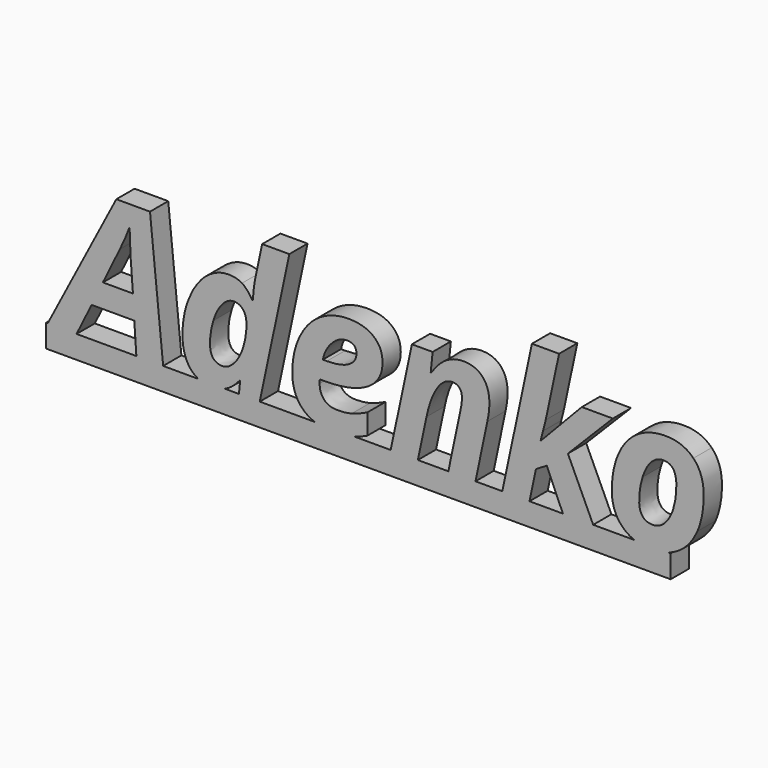
from build123d import *

# Parameters (mm, degrees)
F1_DEPTH = 3


with BuildPart() as f1:
    # F0 (on Front) → F1 (new body)
    with BuildSketch(Plane.XZ):
        with BuildLine():
            Line((-46.1463582666, 0), (-46.3611781597, 0))
            Line((-46.3611781597, 0), (-46.3611781597, -3))
            Line((-46.3611781597, -3), (35.8146238138, -3))
            Line((35.8146238138, -3), (35.8146238138, 0))
            Line((35.8146238138, 0), (35.4910435974, 0))
            add(Edge.make_bspline(
                [(35.4910435974, 0), (34.4249456023, -0.3626259014), (33.1561656303, -0.3626259014)],
                knots=[0.4161376054, 0.4161376054, 0.4161376054, 1, 1, 1], degree=2))
            add(Edge.make_bspline(
                [(33.1561656303, -0.3626259014), (31.9751096996, -0.3626259014), (31.0367911069, 0)],
                knots=[0, 0, 0, 0.5096368798, 0.5096368798, 0.5096368798], degree=2))
            Line((31.0367911069, 0), (25.6185773395, 0))
            Line((25.6185773395, 0), (25.6757539825, -0.1232831214))
            Line((25.6757539825, -0.1232831214), (21.6867076493, -0.1232831214))
            Line((21.6867076493, -0.1232831214), (21.6330940451, 0))
            Line((21.6330940451, 0), (17.2376658852, 0))
            Line((17.2376658852, 0), (17.2113775726, -0.1232831214))
            Line((17.2113775726, -0.1232831214), (13.6402313314, -0.1232831214))
            Line((13.6402313314, -0.1232831214), (13.6663684686, 0))
            Line((13.6663684686, 0), (10.1366339033, 0))
            Line((10.1366339033, 0), (10.1108750994, -0.1232831214))
            Line((10.1108750994, -0.1232831214), (6.5397288582, -0.1232831214))
            Line((6.5397288582, -0.1232831214), (6.5655814677, 0))
            Line((6.5655814677, 0), (2.5502450115, 0))
            Line((2.5502450115, 0), (2.5240888828, -0.1232831214))
            Line((2.5240888828, -0.1232831214), (-1.0470573584, -0.1232831214))
            Line((-1.0470573584, -0.1232831214), (-1.0209470236, 0))
            Line((-1.0209470236, 0), (-5.8292759465, 0))
            add(Edge.make_bspline(
                [(-5.8292759465, 0), (-7.1762900492, -0.3626259014), (-8.7174235934, -0.3626259014)],
                knots=[0.4043195049, 0.4043195049, 0.4043195049, 1, 1, 1], degree=2))
            add(Edge.make_bspline(
                [(-8.7174235934, -0.3626259014), (-10.0144235513, -0.3626259014), (-11.0093207427, 0)],
                knots=[0, 0, 0, 0.5196307111, 0.5196307111, 0.5196307111], degree=2))
            Line((-11.0093207427, 0), (-18.249801289, 0))
            Line((-18.249801289, 0), (-18.2759384262, -0.1232831214))
            Line((-18.2759384262, -0.1232831214), (-20.9960881163, -0.1232831214))
            Line((-20.9960881163, -0.1232831214), (-20.9841135968, 0))
            Line((-20.9841135968, 0), (-22.8543731003, 0))
            add(Edge.make_bspline(
                [(-22.8543731003, 0), (-23.6876992187, -0.3626259014), (-24.6622116511, -0.3626259014)],
                knots=[0.1154760341, 0.1154760341, 0.1154760341, 1, 1, 1], degree=2))
            add(Edge.make_bspline(
                [(-24.6622116511, -0.3626259014), (-25.5957433559, -0.3626259014), (-26.3167947118, 0)],
                knots=[0, 0, 0, 0.5341847171, 0.5341847171, 0.5341847171], degree=2))
            Line((-26.3167947118, 0), (-30.9582430852, 0))
            Line((-30.9582430852, 0), (-30.9459093989, -0.1232831214))
            Line((-30.9459093989, -0.1232831214), (-34.4714665392, -0.1232831214))
            Line((-34.4714665392, -0.1232831214), (-34.4799649161, 0))
            Line((-34.4799649161, 0), (-42.3507199093, 0))
            Line((-42.3507199093, 0), (-42.4115682882, -0.1232831214))
            Line((-42.4115682882, -0.1232831214), (-46.2106600341, -0.1232831214))
            Line((-46.2106600341, -0.1232831214), (-46.1463582666, 0))
        make_face()
        Polygon((-37.1194334861, 17.306949809), (-46.1463582666, 0), (-42.3507199093, 0), (-40.3714560206, 4.0101286982), (-34.7563984201, 4.0101286982), (-34.4799649161, 0), (-30.9582430852, 0), (-32.6896925103, 17.306949809), align=None)
        with BuildLine():
            Line((-35.2426821636, 11.251197566), (-34.9349557322, 7.0949911959))
            Line((-34.9349557322, 7.0949911959), (-38.8860111479, 7.0949911959))
            Line((-38.8860111479, 7.0949911959), (-36.6559442931, 11.6652985663))
            add(Edge.make_bspline(
                [(-35.3604540077, 14.6817774126), (-35.8847286686, 13.2571180078), (-36.6559442931, 11.6652985663)],
                knots=[0, 0, 0, 1, 1, 1], degree=2))
            Line((-35.3604540077, 14.6817774126), (-35.3604540077, 14.2524800453))
            add(Edge.make_bspline(
                [(-35.2426821636, 11.251197566), (-35.3604540077, 12.8050260901), (-35.3604540077, 14.2524800453)],
                knots=[0, 0, 0, 1, 1, 1], degree=2))
        make_face(mode=Mode.SUBTRACT)
        Polygon((-42.3507199093, 0), (-46.1463582666, 0), (-46.2106600341, -0.1232831214), (-42.4115682882, -0.1232831214), align=None)
        Polygon((-30.9582430852, 0), (-34.4799649161, 0), (-34.4714665392, -0.1232831214), (-30.9459093989, -0.1232831214), align=None)
        with BuildLine():
            add(Edge.make_bspline(
                [(35.4910435974, 0), (34.4249456023, -0.3626259014), (33.1561656303, -0.3626259014)],
                knots=[0.4161376054, 0.4161376054, 0.4161376054, 1, 1, 1], degree=2))
            Line((35.4910435974, 0), (31.0367911069, 0))
            add(Edge.make_bspline(
                [(33.1561656303, -0.3626259014), (31.9751096996, -0.3626259014), (31.0367911069, 0)],
                knots=[0, 0, 0, 0.5096368798, 0.5096368798, 0.5096368798], degree=2))
        make_face()
        with BuildLine():
            Line((31.0367911069, 0), (35.4910435974, 0))
            add(Edge.make_bspline(
                [(36.9077687294, 0.7011197875), (36.2508861061, 0.2584552038), (35.4910435974, 0)],
                knots=[0, 0, 0, 0.4161376054, 0.4161376054, 0.4161376054], degree=2))
            add(Edge.make_bspline(
                [(39.3239910798, 3.7005027209), (38.4862913498, 1.7648654764), (36.9077687294, 0.7011197875)],
                knots=[0, 0, 0, 1, 1, 1], degree=2))
            add(Edge.make_bspline(
                [(40.1616908098, 8.1397414261), (40.1616908098, 5.6361399655), (39.3239910798, 3.7005027209)],
                knots=[0, 0, 0, 1, 1, 1], degree=2))
            add(Edge.make_bspline(
                [(38.8073146024, 11.9977190941), (40.1616908098, 10.5977537857), (40.1616908098, 8.1397414261)],
                knots=[0, 0, 0, 1, 1, 1], degree=2))
            add(Edge.make_bspline(
                [(35.1278942464, 13.3976844024), (37.4529383949, 13.3976844024), (38.8073146024, 11.9977190941)],
                knots=[0, 0, 0, 1, 1, 1], degree=2))
            add(Edge.make_bspline(
                [(31.3743916014, 12.313043709), (32.9776083182, 13.3976844024), (35.1278942464, 13.3976844024)],
                knots=[0, 0, 0, 1, 1, 1], degree=2))
            add(Edge.make_bspline(
                [(28.9220778794, 9.2509757617), (29.7711748847, 11.2284030155), (31.3743916014, 12.313043709)],
                knots=[0, 0, 0, 1, 1, 1], degree=2))
            add(Edge.make_bspline(
                [(28.0729808742, 4.7433534052), (28.0729808742, 7.273548508), (28.9220778794, 9.2509757617)],
                knots=[0, 0, 0, 1, 1, 1], degree=2))
            add(Edge.make_bspline(
                [(29.4558502697, 1.0335403153), (28.0729808742, 2.4297065319), (28.0729808742, 4.7433534052)],
                knots=[0, 0, 0, 1, 1, 1], degree=2))
            add(Edge.make_bspline(
                [(31.0367911069, 0), (30.1339584214, 0.348911893), (29.4558502697, 1.0335403153)],
                knots=[0.5096368798, 0.5096368798, 0.5096368798, 1, 1, 1], degree=2))
        make_face()
        with BuildLine():
            add(Edge.make_bspline(
                [(36.5639509264, 8.1397414261), (36.5639509264, 10.4799819416), (34.865756916, 10.4799819416)],
                knots=[0, 0, 0, 1, 1, 1], degree=2))
            add(Edge.make_bspline(
                [(36.1650462931, 5.3094180753), (36.5639509264, 6.6087074524), (36.5639509264, 8.1397414261)],
                knots=[0, 0, 0, 1, 1, 1], degree=2))
            add(Edge.make_bspline(
                [(35.0538119574, 3.2788035371), (35.7661416597, 4.0101286982), (36.1650462931, 5.3094180753)],
                knots=[0, 0, 0, 1, 1, 1], degree=2))
            add(Edge.make_bspline(
                [(33.4524947865, 2.547478376), (34.341482255, 2.547478376), (35.0538119574, 3.2788035371)],
                knots=[0, 0, 0, 1, 1, 1], degree=2))
            add(Edge.make_bspline(
                [(31.6707207576, 4.7433534052), (31.6707207576, 2.547478376), (33.4524947865, 2.547478376)],
                knots=[0, 0, 0, 1, 1, 1], degree=2))
            add(Edge.make_bspline(
                [(32.1171140378, 7.6287635862), (31.6707207576, 6.2287982779), (31.6707207576, 4.7433534052)],
                knots=[0, 0, 0, 1, 1, 1], degree=2))
            add(Edge.make_bspline(
                [(33.2682388368, 9.7543554181), (32.5635073179, 9.0287288946), (32.1171140378, 7.6287635862)],
                knots=[0, 0, 0, 1, 1, 1], degree=2))
            add(Edge.make_bspline(
                [(34.865756916, 10.4799819416), (33.9729703557, 10.4799819416), (33.2682388368, 9.7543554181)],
                knots=[0, 0, 0, 1, 1, 1], degree=2))
        make_face(mode=Mode.SUBTRACT)
        with BuildLine():
            add(Edge.make_bspline(
                [(-26.3167947118, 0), (-26.9455598761, 0.3162140013), (-27.4127540752, 0.9081702877)],
                knots=[0.5341847171, 0.5341847171, 0.5341847171, 1, 1, 1], degree=2))
            Line((-26.3167947118, 0), (-22.8543731003, 0))
            add(Edge.make_bspline(
                [(-22.6391952964, 0.1008632917), (-22.745581028, 0.0473413978), (-22.8543731003, 0)],
                knots=[0, 0, 0, 0.1154760341, 0.1154760341, 0.1154760341], degree=2))
            add(Edge.make_bspline(
                [(-20.8745171804, 1.5977054396), (-21.717915548, 0.5643524847), (-22.6391952964, 0.1008632917)],
                knots=[0, 0, 0, 1, 1, 1], degree=2))
            Line((-20.8745171804, 1.5977054396), (-20.8289280795, 1.5977054396))
            Line((-20.8289280795, 1.5977054396), (-20.9841135968, 0))
            Line((-20.9841135968, 0), (-18.249801289, 0))
            Line((-18.249801289, 0), (-14.3590748362, 18.3517000391))
            Line((-14.3590748362, 18.3517000391), (-17.9302210773, 18.3517000391))
            Line((-17.9302210773, 18.3517000391), (-18.8344049129, 14.1005163754))
            add(Edge.make_bspline(
                [(-19.1307340691, 11.7830704104), (-19.0585513259, 13.089957971), (-18.8344049129, 14.1005163754)],
                knots=[0, 0, 0, 1, 1, 1], degree=2))
            Line((-19.1307340691, 11.7830704104), (-19.1535286195, 11.4525494285))
            Line((-19.1535286195, 11.4525494285), (-19.2485059132, 11.4525494285))
            add(Edge.make_bspline(
                [(-20.5857862077, 12.9588893058), (-19.879155143, 12.5200942091), (-19.2485059132, 11.4525494285)],
                knots=[0, 0, 0, 1, 1, 1], degree=2))
            add(Edge.make_bspline(
                [(-22.2649847595, 13.3976844024), (-21.2924172725, 13.3976844024), (-20.5857862077, 12.9588893058)],
                knots=[0, 0, 0, 1, 1, 1], degree=2))
            add(Edge.make_bspline(
                [(-25.3289522526, 12.2180664153), (-23.9403842194, 13.3976844024), (-22.2649847595, 13.3976844024)],
                knots=[0, 0, 0, 1, 1, 1], degree=2))
            add(Edge.make_bspline(
                [(-27.5666172909, 8.918555234), (-26.7175202857, 11.0384484282), (-25.3289522526, 12.2180664153)],
                knots=[0, 0, 0, 1, 1, 1], degree=2))
            add(Edge.make_bspline(
                [(-28.4157142961, 4.4698187995), (-28.4157142961, 6.7986620397), (-27.5666172909, 8.918555234)],
                knots=[0, 0, 0, 1, 1, 1], degree=2))
            add(Edge.make_bspline(
                [(-27.4127540752, 0.9081702877), (-28.4157142961, 2.1789664767), (-28.4157142961, 4.4698187995)],
                knots=[0, 0, 0, 1, 1, 1], degree=2))
        make_face()
        with BuildLine():
            add(Edge.make_bspline(
                [(-23.1653695032, 2.5246838256), (-22.3827566036, 2.5246838256), (-21.6419337131, 3.3376894592)],
                knots=[0, 0, 0, 1, 1, 1], degree=2))
            add(Edge.make_bspline(
                [(-24.7951798622, 4.6141842858), (-24.7951798622, 2.5246838256), (-23.1653695032, 2.5246838256)],
                knots=[0, 0, 0, 1, 1, 1], degree=2))
            add(Edge.make_bspline(
                [(-24.3601838573, 7.3913203521), (-24.7951798622, 5.9894554979), (-24.7951798622, 4.6141842858)],
                knots=[0, 0, 0, 1, 1, 1], degree=2))
            add(Edge.make_bspline(
                [(-23.1957622372, 9.6479808492), (-23.9251878524, 8.7931852064), (-24.3601838573, 7.3913203521)],
                knots=[0, 0, 0, 1, 1, 1], degree=2))
            add(Edge.make_bspline(
                [(-21.6609291718, 10.502776492), (-22.466336622, 10.502776492), (-23.1957622372, 9.6479808492)],
                knots=[0, 0, 0, 1, 1, 1], degree=2))
            add(Edge.make_bspline(
                [(-20.4414207214, 9.9329127301), (-20.8859144557, 10.502776492), (-21.6609291718, 10.502776492)],
                knots=[0, 0, 0, 1, 1, 1], degree=2))
            add(Edge.make_bspline(
                [(-19.9969269871, 8.4132760318), (-19.9969269871, 9.3630489683), (-20.4414207214, 9.9329127301)],
                knots=[0, 0, 0, 1, 1, 1], degree=2))
            add(Edge.make_bspline(
                [(-20.4490189049, 5.5050713003), (-19.9969269871, 6.8594475077), (-19.9969269871, 8.4132760318)],
                knots=[0, 0, 0, 1, 1, 1], degree=2))
            add(Edge.make_bspline(
                [(-21.6419337131, 3.3376894592), (-20.9011108227, 4.1506950928), (-20.4490189049, 5.5050713003)],
                knots=[0, 0, 0, 1, 1, 1], degree=2))
        make_face(mode=Mode.SUBTRACT)
        with BuildLine():
            Line((-22.8543731003, 0), (-26.3167947118, 0))
            add(Edge.make_bspline(
                [(-24.6622116511, -0.3626259014), (-25.5957433559, -0.3626259014), (-26.3167947118, 0)],
                knots=[0, 0, 0, 0.5341847171, 0.5341847171, 0.5341847171], degree=2))
            add(Edge.make_bspline(
                [(-22.8543731003, 0), (-23.6876992187, -0.3626259014), (-24.6622116511, -0.3626259014)],
                knots=[0.1154760341, 0.1154760341, 0.1154760341, 1, 1, 1], degree=2))
        make_face()
        Polygon((25.6757539825, -0.1232831214), (25.6185773395, 0), (21.6330940451, 0), (21.6867076493, -0.1232831214), align=None)
        with BuildLine():
            Line((21.6330940451, 0), (25.6185773395, 0))
            Line((25.6185773395, 0), (22.2945623287, 7.1671739391))
            Line((22.2945623287, 7.1671739391), (28.2059490853, 13.150743439))
            Line((28.2059490853, 13.150743439), (24.1219254584, 13.150743439))
            Line((24.1219254584, 13.150743439), (18.7424115462, 7.5090921962))
            Line((18.7424115462, 7.5090921962), (18.6968224452, 7.5090921962))
            Line((18.6968224452, 7.5090921962), (19.0273434271, 8.7210024632))
            add(Edge.make_bspline(
                [(19.373060776, 10.1114700422), (19.2780834824, 9.6251862987), (19.0273434271, 8.7210024632)],
                knots=[0, 0, 0, 1, 1, 1], degree=2))
            Line((19.373060776, 10.1114700422), (21.1320402544, 18.3517000391))
            Line((21.1320402544, 18.3517000391), (17.5570949215, 18.3517000391))
            Line((17.5570949215, 18.3517000391), (13.6663684686, 0))
            Line((13.6663684686, 0), (17.2376658852, 0))
            Line((17.2376658852, 0), (18.0927668576, 4.0101286982))
            Line((18.0927668576, 4.0101286982), (19.5174262624, 4.8649243411))
            Line((19.5174262624, 4.8649243411), (21.6330940451, 0))
        make_face()
        Polygon((-18.249801289, 0), (-20.9841135968, 0), (-20.9960881163, -0.1232831214), (-18.2759384262, -0.1232831214), align=None)
        Polygon((17.2113775726, -0.1232831214), (17.2376658852, 0), (13.6663684686, 0), (13.6402313314, -0.1232831214), align=None)
        with BuildLine():
            add(Edge.make_bspline(
                [(-11.0093207427, 0), (-11.9290470908, 0.3352271962), (-12.5905976284, 0.9803530308)],
                knots=[0.5196307111, 0.5196307111, 0.5196307111, 1, 1, 1], degree=2))
            Line((-11.0093207427, 0), (-5.8292759465, 0))
            add(Edge.make_bspline(
                [(-4.0901298469, 0.6593297783), (-4.9149870289, 0.2461331639), (-5.8292759465, 0)],
                knots=[0, 0, 0, 0.4043195049, 0.4043195049, 0.4043195049], degree=2))
            Line((-4.0901298469, 0.6593297783), (-4.0901298469, 3.3566849179))
            add(Edge.make_bspline(
                [(-6.1302421145, 2.5607751971), (-5.2868437469, 2.786821156), (-4.0901298469, 3.3566849179)],
                knots=[0, 0, 0, 1, 1, 1], degree=2))
            add(Edge.make_bspline(
                [(-8.0069934369, 2.3347292383), (-6.9736404821, 2.3347292383), (-6.1302421145, 2.5607751971)],
                knots=[0, 0, 0, 1, 1, 1], degree=2))
            add(Edge.make_bspline(
                [(-9.7583747318, 2.9577802846), (-9.1467209607, 2.3347292383), (-8.0069934369, 2.3347292383)],
                knots=[0, 0, 0, 1, 1, 1], degree=2))
            add(Edge.make_bspline(
                [(-10.3700285029, 4.6597733868), (-10.3700285029, 3.5808313309), (-9.7583747318, 2.9577802846)],
                knots=[0, 0, 0, 1, 1, 1], degree=2))
            Line((-10.3700285029, 4.6597733868), (-10.3700285029, 4.8991161668))
            Line((-10.3700285029, 4.8991161668), (-10.3472339524, 5.149856222))
            Line((-10.3472339524, 5.149856222), (-9.7393792731, 5.149856222))
            add(Edge.make_bspline(
                [(-4.0768330258, 6.3541683055), (-6.0580593713, 5.149856222), (-9.7393792731, 5.149856222)],
                knots=[0, 0, 0, 1, 1, 1], degree=2))
            add(Edge.make_bspline(
                [(-2.0956066803, 9.7771499686), (-2.0956066803, 7.5584803889), (-4.0768330258, 6.3541683055)],
                knots=[0, 0, 0, 1, 1, 1], degree=2))
            add(Edge.make_bspline(
                [(-3.2695260298, 12.4308155531), (-2.0956066803, 11.4639467038), (-2.0956066803, 9.7771499686)],
                knots=[0, 0, 0, 1, 1, 1], degree=2))
            add(Edge.make_bspline(
                [(-6.5481422065, 13.3976844024), (-4.4434453793, 13.3976844024), (-3.2695260298, 12.4308155531)],
                knots=[0, 0, 0, 1, 1, 1], degree=2))
            add(Edge.make_bspline(
                [(-10.3339371313, 12.3358382594), (-8.6604372172, 13.3976844024), (-6.5481422065, 13.3976844024)],
                knots=[0, 0, 0, 1, 1, 1], degree=2))
            add(Edge.make_bspline(
                [(-12.9876027159, 9.2490762159), (-12.0074370454, 11.2739921165), (-10.3339371313, 12.3358382594)],
                knots=[0, 0, 0, 1, 1, 1], degree=2))
            add(Edge.make_bspline(
                [(-13.9677683863, 4.7699470474), (-13.9677683863, 7.2241603153), (-12.9876027159, 9.2490762159)],
                knots=[0, 0, 0, 1, 1, 1], degree=2))
            add(Edge.make_bspline(
                [(-12.5905976284, 0.9803530308), (-13.9677683863, 2.323331963), (-13.9677683863, 4.7699470474)],
                knots=[0, 0, 0, 1, 1, 1], degree=2))
        make_face()
        with BuildLine():
            add(Edge.make_bspline(
                [(-6.7722886195, 10.8219001987), (-7.8170388497, 10.8219001987), (-8.7421176898, 9.8721272622)],
                knots=[0, 0, 0, 1, 1, 1], degree=2))
            add(Edge.make_bspline(
                [(-5.5261865269, 9.6935699501), (-5.5261865269, 10.8219001987), (-6.7722886195, 10.8219001987)],
                knots=[0, 0, 0, 1, 1, 1], degree=2))
            add(Edge.make_bspline(
                [(-6.5519412983, 8.1340427884), (-5.5261865269, 8.7096051879), (-5.5261865269, 9.6935699501)],
                knots=[0, 0, 0, 1, 1, 1], degree=2))
            add(Edge.make_bspline(
                [(-9.4202555664, 7.5584803889), (-7.5776960697, 7.5584803889), (-6.5519412983, 8.1340427884)],
                knots=[0, 0, 0, 1, 1, 1], degree=2))
            Line((-9.4202555664, 7.5584803889), (-9.9521284109, 7.5584803889))
            add(Edge.make_bspline(
                [(-8.7421176898, 9.8721272622), (-9.6671965299, 8.9223543257), (-9.9521284109, 7.5584803889)],
                knots=[0, 0, 0, 1, 1, 1], degree=2))
        make_face(mode=Mode.SUBTRACT)
        with BuildLine():
            Line((-5.8292759465, 0), (-11.0093207427, 0))
            add(Edge.make_bspline(
                [(-8.7174235934, -0.3626259014), (-10.0144235513, -0.3626259014), (-11.0093207427, 0)],
                knots=[0, 0, 0, 0.5196307111, 0.5196307111, 0.5196307111], degree=2))
            add(Edge.make_bspline(
                [(-5.8292759465, 0), (-7.1762900492, -0.3626259014), (-8.7174235934, -0.3626259014)],
                knots=[0.4043195049, 0.4043195049, 0.4043195049, 1, 1, 1], degree=2))
        make_face()
        Polygon((10.1108750994, -0.1232831214), (10.1366339033, 0), (6.5655814677, 0), (6.5397288582, -0.1232831214), align=None)
        with BuildLine():
            Line((6.5655814677, 0), (10.1366339033, 0))
            Line((10.1366339033, 0), (11.6912972657, 7.4407085448))
            add(Edge.make_bspline(
                [(11.9648318714, 9.575798106), (11.9648318714, 8.7096051879), (11.6912972657, 7.4407085448)],
                knots=[0, 0, 0, 1, 1, 1], degree=2))
            add(Edge.make_bspline(
                [(11.0682462194, 12.4080210026), (11.9648318714, 11.4183576028), (11.9648318714, 9.575798106)],
                knots=[0, 0, 0, 1, 1, 1], degree=2))
            add(Edge.make_bspline(
                [(8.5342520249, 13.3976844024), (10.1716605674, 13.3976844024), (11.0682462194, 12.4080210026)],
                knots=[0, 0, 0, 1, 1, 1], degree=2))
            add(Edge.make_bspline(
                [(4.3172601869, 10.6927310793), (6.049646023, 13.3976844024), (8.5342520249, 13.3976844024)],
                knots=[0, 0, 0, 1, 1, 1], degree=2))
            Line((4.3172601869, 10.6927310793), (4.2450774437, 10.6927310793))
            Line((4.2450774437, 10.6927310793), (4.4958174989, 13.150743439))
            Line((4.4958174989, 13.150743439), (1.7642705336, 13.150743439))
            Line((1.7642705336, 13.150743439), (-1.0209470236, 0))
            Line((-1.0209470236, 0), (2.5502450115, 0))
            Line((2.5502450115, 0), (3.6904100488, 5.374002635))
            add(Edge.make_bspline(
                [(5.0903753572, 9.1484002846), (4.1994883428, 7.7940240772), (3.6904100488, 5.374002635)],
                knots=[0, 0, 0, 1, 1, 1], degree=2))
            add(Edge.make_bspline(
                [(7.0716017027, 10.502776492), (5.9812623716, 10.502776492), (5.0903753572, 9.1484002846)],
                knots=[0, 0, 0, 1, 1, 1], degree=2))
            add(Edge.make_bspline(
                [(8.3556947128, 9.0439252616), (8.3556947128, 10.502776492), (7.0716017027, 10.502776492)],
                knots=[0, 0, 0, 1, 1, 1], degree=2))
            add(Edge.make_bspline(
                [(8.1657401255, 7.6306631321), (8.3556947128, 8.4360705822), (8.3556947128, 9.0439252616)],
                knots=[0, 0, 0, 1, 1, 1], degree=2))
            Line((8.1657401255, 7.6306631321), (6.5655814677, 0))
        make_face()
        Polygon((2.5502450115, 0), (-1.0209470236, 0), (-1.0470573584, -0.1232831214), (2.5240888828, -0.1232831214), align=None)
    extrude(amount=F1_DEPTH)


solid = f1.part
